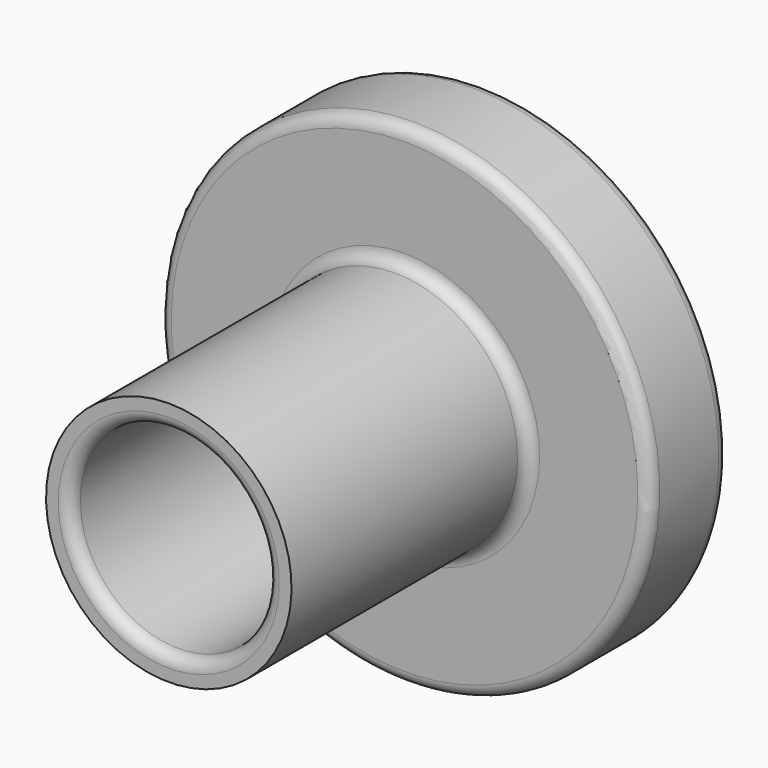
from build123d import *

# Parameters (mm, degrees)
F2_R = 0.5


with BuildPart() as f1:
    # F0 (on Right) → F1 (revolve)
    with BuildSketch(Plane.YZ):
        Polygon((-16, 4), (0, 4), (0, 10), (-4, 10), (-4, 5), (-16, 5), align=None)
    revolve(axis=Axis((0, 0, 0), (0, 1, 0)))

    # F2
    f2_edges = [f1.edges().sort_by_distance(p)[0] for p in [
        (0, -16, -4),
        (0, -4, -5),
        (0, -4, -10),
        (0, 0, -10),
    ]]
    fillet(f2_edges, radius=F2_R)


solid = f1.part
